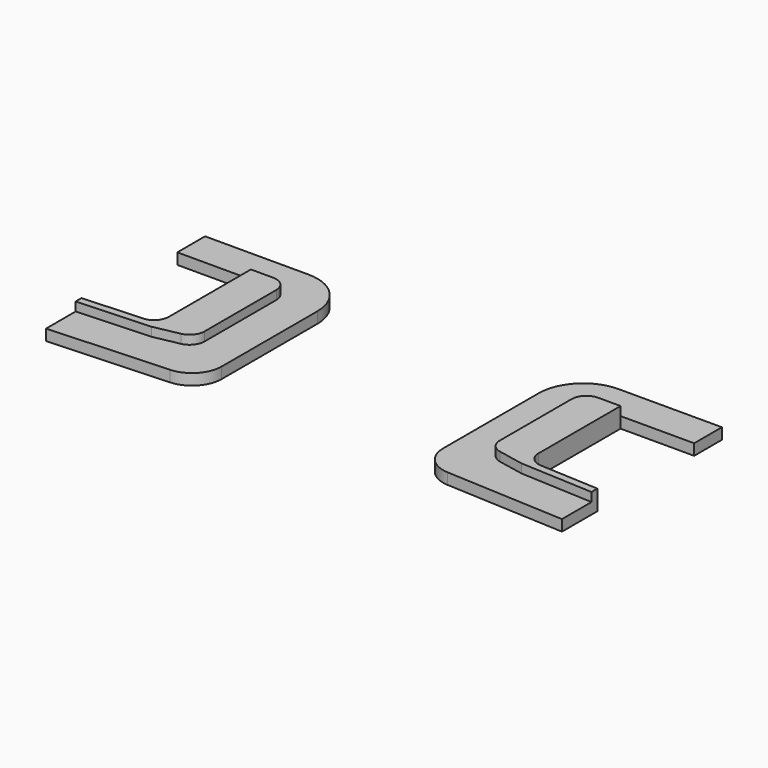
from build123d import *

# Parameters (mm, degrees)
F1_DEPTH = 1.5
F2_R     = 6
F3_R     = 4
F5_DEPTH = 1.2
F6_R     = 2


with BuildPart() as f1:
    # F0 (on Top) → F1 (new body)
    with BuildSketch(Plane.XY):
        Polygon((0, 26), (0, 0), (19.933554, -1), (19.933554, 5), (10.033223, 5.5), (10.033223, 21.3), (20, 21.3), (20, 26), align=None)
    extrude(amount=F1_DEPTH)

    # F2
    f2_edges = [f1.edges().sort_by_distance(p)[0] for p in [
        (0, 26, 0.75),
    ]]
    fillet(f2_edges, radius=F2_R)

    # F3
    f3_edges = [f1.edges().sort_by_distance(p)[0] for p in [
        (0, 0, 0.75),
    ]]
    fillet(f3_edges, radius=F3_R)

    # F4 (on face) → F5 (join)
    with BuildSketch(Plane.XY.offset(1.5)):
        Polygon((10.033223, 5.5), (10.033223, 21.3), (5, 21.3), (5, 5.5), (10.033223, 4.5), (19.933554, 4), (19.933554, 5), align=None)
    extrude(amount=F5_DEPTH)

    # F6
    f6_edges = [f1.edges().sort_by_distance(p)[0] for p in [
        (10.033223, 5.5, 1.35),
        (5, 21.3, 2.1),
        (5, 5.5, 2.1),
    ]]
    fillet(f6_edges, radius=F6_R)


with BuildPart() as f7_1:
    # F7: copy of F1
    add(f1.part.moved(Location((30, 0, 0))))


with BuildPart() as f8_1:
    # F8: instance of F7_1
    add(f7_1.part.mirror(Plane.YZ))


solid = Compound([f1.part, f8_1.part])
